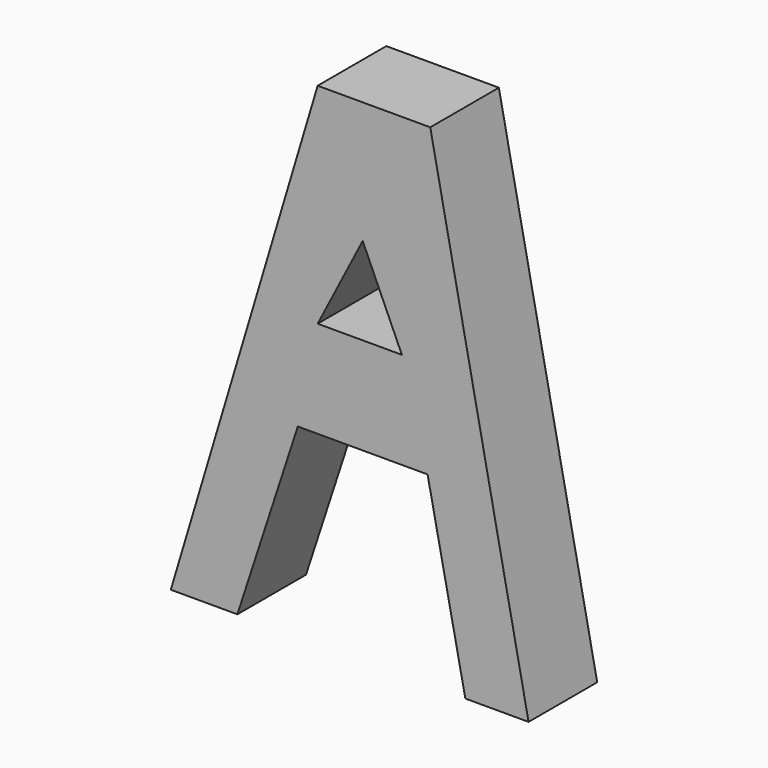
from build123d import *

# Parameters (mm, degrees)
F1_DEPTH = 12.7


with BuildPart() as f1:
    # F0 (on Front) → F1 (new body)
    with BuildSketch(Plane.XZ):
        Polygon((-110.430367, 45.36799), (-132.172212, -27.394729), (-122.315906, -27.394729), (-113.368736, 0), (-94.156994, 0), (-88.566271, -27.394729), (-79.205923, -27.394729), (-93.75971, 45.36799), align=None)
        Polygon((-110.430367, 14.34962), (-103.762865, 27.310688), (-97.965039, 14.34962), align=None, mode=Mode.SUBTRACT)
    extrude(amount=F1_DEPTH)


solid = f1.part
